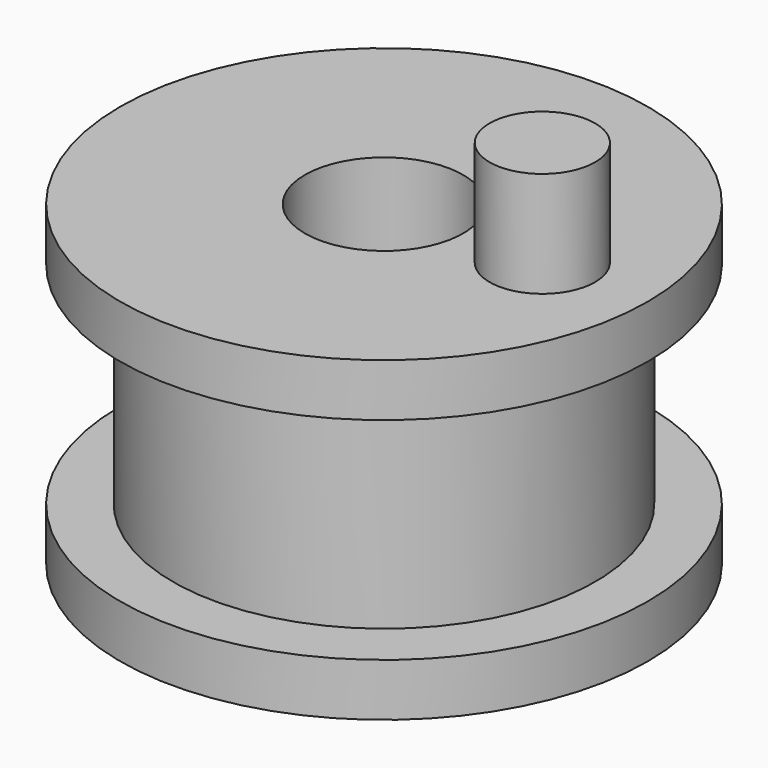
from build123d import *

# Parameters (mm, degrees)
F0_W     = 12.7
F0_H     = 12.7
F3_D     = 9.525
F2_R     = 3.175
F4_DEPTH = 6.35


with BuildPart() as f1:
    # F0 (on Front) → F1 (revolve)
    with BuildSketch(Plane.XZ):
        with Locations((-6.35, 0)):
            Rectangle(F0_W, F0_H)
        Polygon((-15.875, 6.35), (-12.7, 6.35), (0, 6.35), (0, 9.525), (-15.875, 9.525), align=None)
        Polygon((0, -6.35), (-12.7, -6.35), (-15.875, -6.35), (-15.875, -9.525), (0, -9.525), align=None)
    revolve(axis=Axis((0, 0, 0), (0, 0, -1)))

    # F3 (through all)
    with Locations(Plane.XY.offset(9.525)):
        with Locations((0, 0)):
            Hole(F3_D / 2)

    # F2 (on face) → F4 (join)
    with BuildSketch(Plane.XY.offset(9.525)):
        with Locations((9.525, 0)):
            Circle(F2_R)
    extrude(amount=F4_DEPTH)


solid = f1.part
